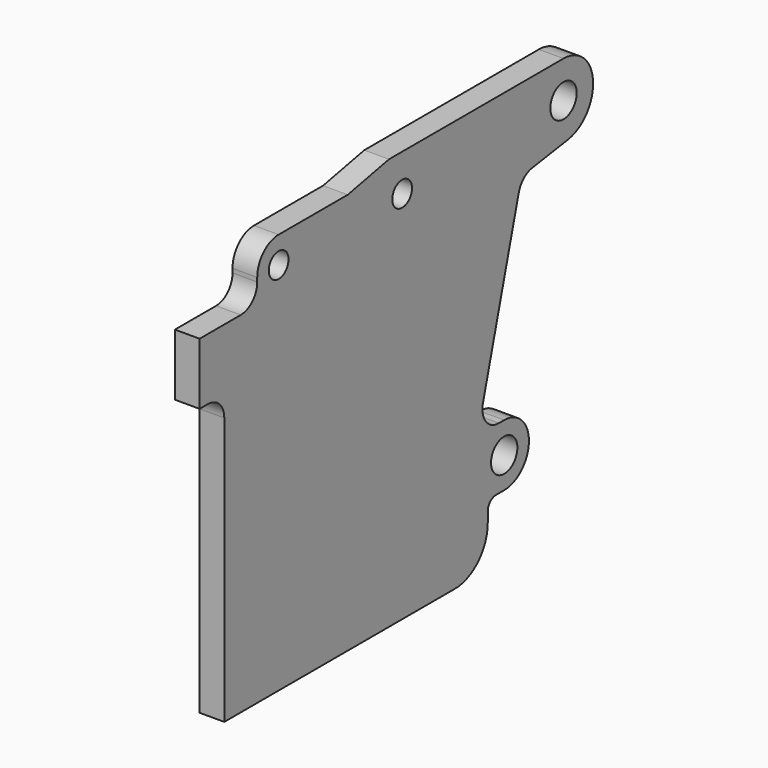
from build123d import *

# Parameters (mm, degrees)
F0_R     = 8
F1_DEPTH = 12
F3_D     = 12


with BuildPart() as f1:
    # F0 (on Right) → F1 (new body)
    with BuildSketch(Plane.YZ):
        with BuildLine():
            Line((0, 130), (0, 0))
            Line((0, 0), (140, 0))
            ThreePointArc((140, 0), (154.142136, 5.857864), (160, 20))
            Line((160, 20), (160, 25))
            ThreePointArc((160, 25), (161.464466, 28.535534), (165, 30))
            Line((165, 30), (170, 30))
            ThreePointArc((170, 30), (185, 45), (170, 60))
            Line((170, 60), (166.766477, 60))
            ThreePointArc((166.766477, 60), (158.832944, 63.912386), (157.107219, 72.58819))
            Line((157.107219, 72.58819), (178.831829, 153.665538))
            ThreePointArc((178.831829, 153.665538), (181.833121, 158.538681), (187.015248, 160.967843))
            Line((187.015248, 160.967843), (208.656511, 164.197108))
            ThreePointArc((208.656511, 164.197108), (223.950655, 183.331907), (206, 200))
            Line((206, 200), (100, 200))
            Line((100, 200), (75, 195))
            Line((75, 195), (33, 195))
            ThreePointArc((33, 195), (23.807612, 191.192388), (20, 182))
            Line((20, 182), (20, 180))
            ThreePointArc((20, 180), (17.071068, 172.928932), (10, 170))
            Line((10, 170), (-15, 170))
            Line((-15, 170), (-15, 140))
            Line((-15, 140), (-10, 140))
            ThreePointArc((-10, 140), (-2.928932, 137.071068), (0, 130))
        make_face()
        with Locations((170, 45)):
            Circle(F0_R, mode=Mode.SUBTRACT)
        with Locations((206, 182)):
            Circle(F0_R, mode=Mode.SUBTRACT)
    extrude(amount=F1_DEPTH)

    # F3 (through all)
    with Locations(Plane.YZ.offset(12)):
        with Locations((33, 182), (108, 182)):
            Hole(F3_D / 2)


solid = f1.part
